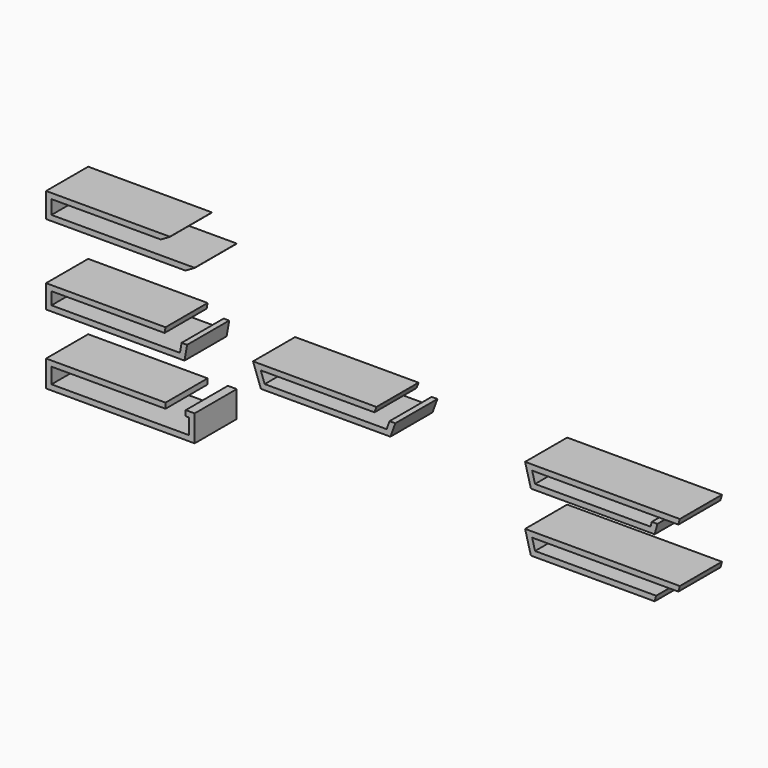
from build123d import *

# Parameters (mm, degrees)
F1_DEPTH   = 431.8
F2_SIZE2   = 74.7899538708
F2_SIZE    = 43.18
F2_2_SIZE2 = 74.7899538708
F2_2_SIZE  = 43.18


with BuildPart() as f1:
    # F0 (on Front) → F1 (new body)
    with BuildSketch(Plane.XZ):
        Polygon((1016, 158.75), (1016, 203.2), (0, 203.2), (0, 0), (1219.2, 0), (1219.2, 44.45), (44.45, 44.45), (44.45, 158.75), align=None)
    extrude(amount=F1_DEPTH)

    # F2
    f2_edges = [f1.edges().sort_by_distance(p)[0] for p in [
        (1219.2, -215.9, 0),
    ]]
    f2_side = f1.faces().sort_by_distance((1219.2, -215.9, 22.225))[0]
    chamfer(f2_edges, length=F2_SIZE, length2=F2_SIZE2, reference=f2_side)

    # F2#2
    f2_2_edges = [f1.edges().sort_by_distance(p)[0] for p in [
        (1016, -215.9, 158.75),
    ]]
    f2_2_side = f1.faces().sort_by_distance((1016, -215.9, 180.975))[0]
    chamfer(f2_2_edges, length=F2_2_SIZE, length2=F2_2_SIZE2, reference=f2_2_side)


with BuildPart() as f1b:
    # F0 (on Front) → F1, piece 2 (new body)
    with BuildSketch(Plane.XZ):
        Polygon((972.52150469, -506.5759436351), (980.2401661873, -462.8012390137), (0, -462.8012390137), (0, -653.3012390137), (1136.0823803587, -653.3012390137), (1157.4558151349, -532.0864669441), (1112.3201022366, -532.0864669441), (1098.7844017528, -608.8512390137), (44.45, -608.8512390137), (44.45, -506.5759436351), align=None)
    extrude(amount=F1_DEPTH)


with BuildPart() as f1c:
    # F0 (on Front) → F1, piece 3 (new body)
    with BuildSketch(Plane.XZ):
        Polygon((980.2401661873, -1051.7349137777), (980.2401661873, -1007.2849137777), (0, -1007.2849137777), (0, -1224.0524632925), (1219.2, -1224.0524632925), (1219.2, -1007.2849137777), (1146.2560296059, -1007.2849137777), (1146.2560296059, -1051.7349137777), (1174.75, -1051.7349137777), (1174.75, -1179.6024632925), (44.45, -1179.6024632925), (44.45, -1051.7349137777), align=None)
    extrude(amount=F1_DEPTH)


with BuildPart() as f1d:
    # F0 (on Front) → F1, piece 4 (new body)
    with BuildSketch(Plane.XZ):
        Polygon((2695.1165082038, -519.9512390137), (2711.2949851169, -475.5012390137), (1698.3364767881, -475.5012390137), (1763.0503844407, -653.3012390137), (2826.1495695697, -653.3012390137), (2866.2166171355, -543.2179305625), (2818.9139151489, -543.2179305625), (2795.0253444963, -608.8512390137), (1794.1746095141, -608.8512390137), (1761.8176556878, -519.9512390137), align=None)
    extrude(amount=F1_DEPTH)


with BuildPart() as f1e:
    # F0 (on Front) → F1, piece 5 (new body)
    with BuildSketch(Plane.XZ):
        Polygon((5189.2518063713, -519.9512390137), (5201.1621479749, -475.5012390137), (3931.1621479749, -475.5012390137), (3989.0905157977, -519.9512390137), align=None)
        Polygon((3989.0905157977, -519.9512390137), (3931.1621479749, -475.5012390137), (3978.8035143891, -653.3012390137), (4012.9111990048, -608.8512390137), align=None)
        Polygon((4012.9111990048, -608.8512390137), (3978.8035143891, -653.3012390137), (4994.8035143891, -653.3012390137), (4960.6958297735, -608.8512390137), align=None)
        Polygon((4960.6958297735, -608.8512390137), (4994.8035143891, -653.3012390137), (5016.9227202243, -570.7512390137), (4970.9046940051, -570.7512390137), align=None)
    extrude(amount=F1_DEPTH)


with BuildPart() as f1f:
    # F0 (on Front) → F1, piece 6 (new body)
    with BuildSketch(Plane.XZ):
        Polygon((5189.2518063713, -1004.1349826813), (5201.1621479749, -959.6849826813), (3931.1621479749, -959.6849826813), (3989.0905157977, -1004.1349826813), align=None)
        Polygon((3989.0905157977, -1004.1349826813), (3931.1621479749, -959.6849826813), (3978.8035143891, -1137.4849826813), (4012.9111990048, -1093.0349826813), align=None)
        Polygon((4012.9111990048, -1093.0349826813), (3978.8035143891, -1137.4849826813), (4994.8035143891, -1137.4849826813), (5006.7138559927, -1093.0349826813), align=None)
    extrude(amount=F1_DEPTH)


solid = Compound([f1.part, f1b.part, f1c.part, f1d.part, f1e.part, f1f.part])
